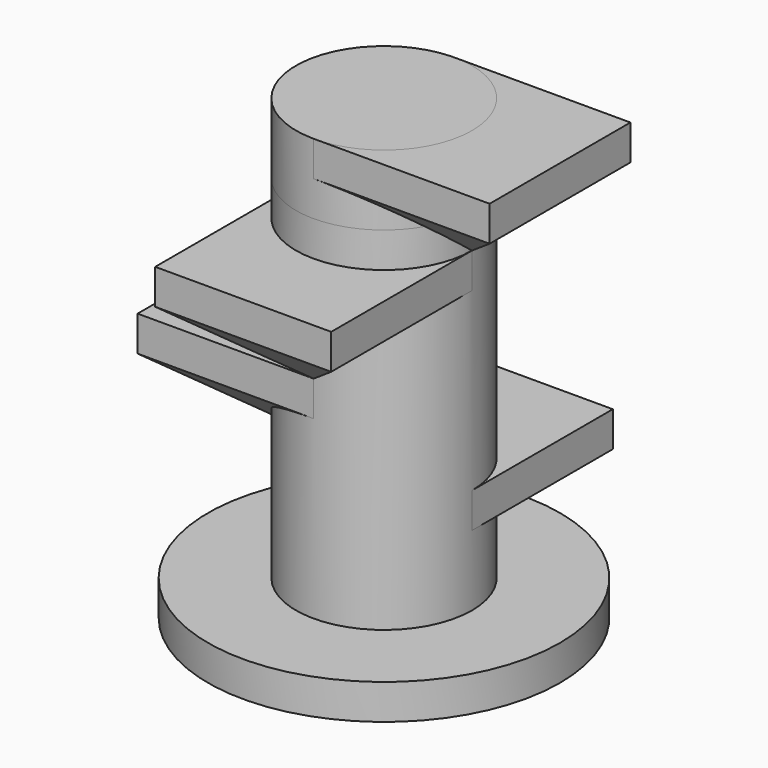
from build123d import *

# Parameters (mm, degrees)
F0_R       = 12.7
F1_DEPTH   = 2.54
F4_W       = 12.7
F4_H       = 12.7
F5_DEPTH   = 2.54
F6_R       = 6.35
F7_DEPTH   = 25.4
F9_W       = 12.7
F9_H       = 12.7
F10_DEPTH  = 2.54
F5_FACE1_W = 12.7
F5_FACE1_H = 12.7
F16_W      = 12.7
F16_H      = 12.7
F17_DEPTH  = 2.54
F21_W      = 12.7
F21_H      = 12.7
F22_DEPTH  = 2.54
F23_R      = 6.35
F24_DEPTH  = 5.08
F22_FACE_W = 12.7
F22_FACE_H = 12.7


with BuildPart() as f1:
    # F0 (on Top) → F1 (new body)
    with BuildSketch(Plane.XY):
        Circle(F0_R)
    extrude(amount=F1_DEPTH)


with BuildPart() as f5:
    # F4 (on offset) → F5 (new body)
    with BuildSketch(Plane.XY.offset(7.62)):
        with Locations((0, 6.35)):
            Rectangle(F4_W, F4_H)
    extrude(amount=F5_DEPTH)


with BuildPart() as f7:
    # F6 (on face) → F7 (new body)
    with BuildSketch(Plane.XY.offset(2.54)):
        Circle(F6_R)
    extrude(amount=F7_DEPTH)

    # F9 (on offset) → F10 (join)
    with BuildSketch(Plane.XY.offset(15.24)):
        with Locations((-6.35, 0)):
            Rectangle(F9_W, F9_H)
    extrude(amount=F10_DEPTH)

    # F10_face (on face) → F12 section 0
    with BuildSketch(Plane(origin=(-8.7134178579, 0, 15.24), x_dir=(1, 0, 0), z_dir=(0, 0, -1)), mode=Mode.PRIVATE) as f12_s0:
        with BuildLine():
            Line((8.7134178579, 6.35), (-3.9865821421, 6.35))
            Line((-3.9865821421, 6.35), (-3.9865821421, -6.35))
            Line((-3.9865821421, -6.35), (8.7134178579, -6.35))
            ThreePointArc((8.7134178579, -6.35), (2.3634178579, 0), (8.7134178579, 6.35))
        make_face()
    loft([Vertex(-6.35, 0, 10.16), f12_s0.sketch])

    # F16 (on offset) → F17 (join)
    with BuildSketch(Plane.XY.offset(22.86)):
        with Locations((0, -6.35)):
            Rectangle(F16_W, F16_H)
    extrude(amount=F17_DEPTH)

    # F17_face (on face) → F19 section 0
    with BuildSketch(Plane(origin=(0, -8.7134178579, 22.86), x_dir=(1, 0, 0), z_dir=(0, 0, -1)), mode=Mode.PRIVATE) as f19_s0:
        with BuildLine():
            Line((-6.35, 3.9865821421), (-6.35, -8.7134178579))
            ThreePointArc((-6.35, -8.7134178579), (0, -2.3634178579), (6.35, -8.7134178579))
            Line((6.35, -8.7134178579), (6.35, 3.9865821421))
            Line((6.35, 3.9865821421), (-6.35, 3.9865821421))
        make_face()
    loft([Vertex(0, -6.35, 17.78), f19_s0.sketch])


with BuildPart() as f14:
    # F5_face1 (on face) → F14 section 0
    with BuildSketch(Plane(origin=(0, 6.35, 7.62), x_dir=(1, 0, 0), z_dir=(0, 0, -1)), mode=Mode.PRIVATE) as f14_s0:
        Rectangle(F5_FACE1_W, F5_FACE1_H)
    loft([Vertex(0, 6.35, 2.54), f14_s0.sketch])


with BuildPart() as f22:
    # F21 (on offset) → F22 (new body)
    with BuildSketch(Plane.XY.offset(30.48)):
        with Locations((6.35, 0)):
            Rectangle(F21_W, F21_H)
    extrude(amount=F22_DEPTH)


with BuildPart() as f24:
    # F23 (on face) → F24 (new body, through all)
    with BuildSketch(Plane.XY.offset(27.94)):
        Circle(F23_R)
    extrude(amount=F24_DEPTH)


with BuildPart() as f26:
    # F22_face (on face) → F26 section 0
    with BuildSketch(Plane(origin=(6.35, 0, 30.48), x_dir=(1, 0, 0), z_dir=(0, 0, -1)), mode=Mode.PRIVATE) as f26_s0:
        Rectangle(F22_FACE_W, F22_FACE_H)
    loft([Vertex(6.35, 0, 25.4), f26_s0.sketch])


solid = Compound([f1.part, f5.part, f7.part, f14.part, f22.part, f24.part, f26.part])
